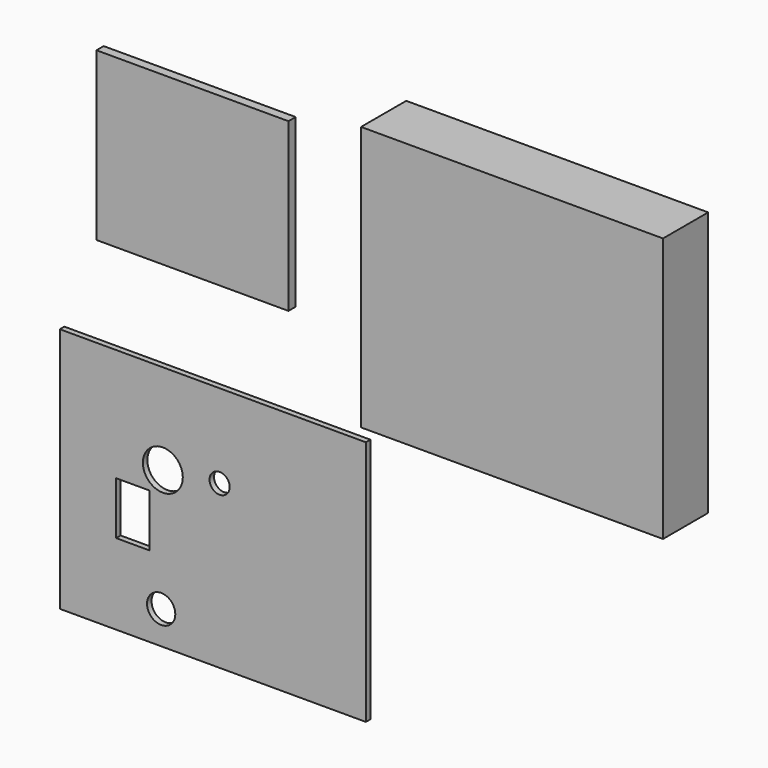
from build123d import *

# Parameters (mm, degrees)
SKETCH_W        = 34.003207
SKETCH_H        = 29.578406
PAD_DEPTH       = 1.6
SKETCH001_W     = 4.698031
SKETCH001_H     = 8.087746
PAD001_DEPTH    = 1.6
SKETCH002_R     = 1.142358
PAD002_DEPTH    = 4
SKETCH003_R     = 1.304251
PAD003_DEPTH    = 4
SKETCH004_R     = 2.628762
PAD004_DEPTH    = 10
SKETCH005_W     = 53.46946
SKETCH005_H     = 46.851956
PAD005_DEPTH    = 10
SKETCH007_W     = 34.688423
SKETCH007_H     = 30.696152
POCKET_DEPTH    = 1.6
SKETCH008_W     = 54.197322
SKETCH008_H     = 43.593485
PAD006_DEPTH    = 1
SKETCH011_R     = 3.532764
SKETCH011_R_2   = 1.784062
SKETCH011_R_3   = 2.501222
SKETCH011_W     = 5.887407
SKETCH011_H     = 9.336594
POCKET001_DEPTH = 5


with BuildPart() as body:
    # Sketch → Pad (new body)
    with BuildSketch(Plane.XZ):
        with Locations((-6.557476, 0.458427)):
            Rectangle(SKETCH_W, SKETCH_H)
    extrude(amount=PAD_DEPTH)

    # Sketch001 (on Face5 of Pad) → Pad001 (join)
    with BuildSketch(Plane(origin=(0, 0, 0), x_dir=(1, 0, 0), z_dir=(0, 1, 0))):
        with Locations((-18.050574, 0.293694)):
            Rectangle(SKETCH001_W, SKETCH001_H)
    extrude(amount=PAD001_DEPTH)

    # Sketch002 (on Face4 of Pad001) → Pad002 (join)
    with BuildSketch(Plane(origin=(0, 0, 0), x_dir=(1, 0, 0), z_dir=(0, 1, 0))):
        with Locations((-2.350305, -4.660569)):
            Circle(SKETCH002_R)
    extrude(amount=PAD002_DEPTH)

    # Sketch003 (on Face4 of Pad002) → Pad003 (join)
    with BuildSketch(Plane(origin=(0, 0, 0), x_dir=(1, 0, 0), z_dir=(0, 1, 0))):
        with Locations((-12.697866, 10.801292)):
            Circle(SKETCH003_R)
    extrude(amount=PAD003_DEPTH)

    # Sketch004 (on Face4 of Pad003) → Pad004 (join)
    with BuildSketch(Plane(origin=(0, 0, 0), x_dir=(1, 0, 0), z_dir=(0, 1, 0))):
        with Locations((-11.092212, -3.53067)):
            Circle(SKETCH004_R)
    extrude(amount=PAD004_DEPTH)


with BuildPart() as body006:
    # Sketch005 → Pad005 (new body)
    with BuildSketch(Plane.XZ):
        with Locations((56.753948, 0.711401)):
            Rectangle(SKETCH005_W, SKETCH005_H)
    extrude(amount=PAD005_DEPTH)

    # Sketch007 (on Face5 of Pad005) → Pocket (cut)
    with BuildSketch(Plane(origin=(0, 0, 0), x_dir=(1, 0, 0), z_dir=(0, 1, 0))):
        with Locations((54.922473, -1.202261)):
            Rectangle(SKETCH007_W, SKETCH007_H)
    extrude(amount=-POCKET_DEPTH, mode=Mode.SUBTRACT)


with BuildPart() as body007:
    # Sketch008 → Pad006 (new body)
    with BuildSketch(Plane.XZ):
        with Locations((-3.426609, -52.546)):
            Rectangle(SKETCH008_W, SKETCH008_H)
    extrude(amount=PAD006_DEPTH)

    # Sketch011 (on Face5 of Pad006) → Pocket001 (cut)
    with BuildSketch(Plane(origin=(0, 0, 0), x_dir=(1, 0, 0), z_dir=(0, 1, 0))):
        with Locations((-12.280838, 46.770668)):
            Circle(SKETCH011_R)
        with Locations((-2.23062, 45.575317)):
            Circle(SKETCH011_R_2)
        with Locations((-12.578182, 68.518333)):
            Circle(SKETCH011_R_3)
        with Locations((-17.603291, 55.399494)):
            Rectangle(SKETCH011_W, SKETCH011_H)
    extrude(amount=-POCKET001_DEPTH, mode=Mode.SUBTRACT)


solid = Compound([body.part, body006.part, body007.part])
